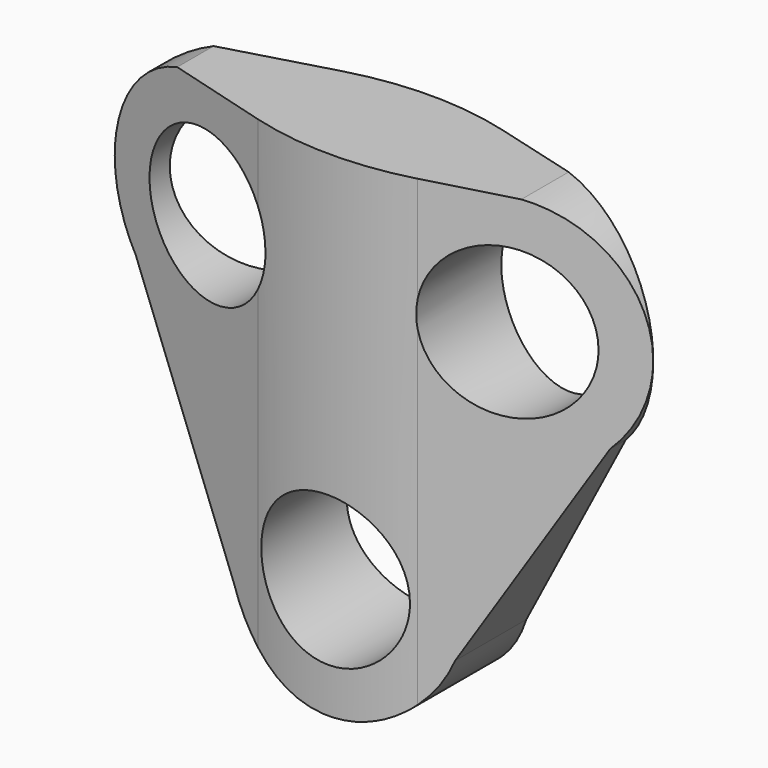
from build123d import *

# Parameters (mm, degrees)
F0_R     = 2.5
F1_DEPTH = 5
F2_DEPTH = 7.6
F4_DEPTH = 12.5


with BuildPart() as f1:
    # F0 (on Front) → F1 (new body)
    with BuildSketch(Plane.XZ):
        with BuildLine():
            ThreePointArc((-13.985505, -0.040325), (-18.794733, 3.876963), (-21.658079, -1.625316))
            ThreePointArc((-21.658079, -1.625316), (-17.895778, -4.039319), (-14.245536, -1.458999))
            ThreePointArc((-14.245536, -1.458999), (-14.05105, -0.761479), (-13.985505, -0.040325))
        make_face()
        with Locations((-17.985505, -0.040325)):
            Circle(F0_R, mode=Mode.SUBTRACT)
        with BuildLine():
            ThreePointArc((-8.813406, 8.51826), (-9.956912, 11.31834), (-12.733627, 12.517465))
            ThreePointArc((-12.733627, 12.517465), (-16.526603, 7.030925), (-9.994852, 5.679994))
            ThreePointArc((-9.994852, 5.679994), (-9.12056, 6.98109), (-8.813406, 8.51826))
        make_face()
        with Locations((-12.813406, 8.51826)):
            Circle(F0_R, mode=Mode.SUBTRACT)
        with Locations((-17.985505, -0.040325)):
            Circle(F0_R)
        with Locations((-12.813406, 8.51826)):
            Circle(F0_R)
        with Locations((-22.811408, 8.718137)):
            Circle(F0_R)
        with BuildLine():
            ThreePointArc((-22.673007, 12.715742), (-19.934465, 11.497201), (-18.811408, 8.718137))
            ThreePointArc((-18.811408, 8.718137), (-21.464184, 4.951841), (-25.903902, 6.181114))
            Line((-25.903902, 6.181114), (-21.658079, -1.625316))
            ThreePointArc((-21.658079, -1.625316), (-18.794733, 3.876963), (-13.985505, -0.040325))
            ThreePointArc((-13.985505, -0.040325), (-14.05105, -0.761479), (-14.245536, -1.458999))
            Line((-14.245536, -1.458999), (-9.994852, 5.679994))
            ThreePointArc((-9.994852, 5.679994), (-16.526603, 7.030925), (-12.733627, 12.517465))
            Line((-12.733627, 12.517465), (-22.673007, 12.715742))
        make_face()
        with BuildLine():
            ThreePointArc((-25.903902, 6.181114), (-21.464184, 4.951841), (-18.811408, 8.718137))
            ThreePointArc((-18.811408, 8.718137), (-19.934465, 11.497201), (-22.673007, 12.715742))
            ThreePointArc((-22.673007, 12.715742), (-26.397075, 10.490986), (-25.903902, 6.181114))
        make_face()
        with Locations((-22.811408, 8.718137)):
            Circle(F0_R, mode=Mode.SUBTRACT)
    extrude(amount=F1_DEPTH)

    # F0 (on Front) → F2 (cut)
    with BuildSketch(Plane.XZ):
        with Locations((-22.811408, 8.718137)):
            Circle(F0_R)
        with Locations((-12.813406, 8.51826)):
            Circle(F0_R)
        with Locations((-17.985505, -0.040325)):
            Circle(F0_R)
    extrude(amount=F2_DEPTH, mode=Mode.SUBTRACT)

    # F3 (on Top) → F4 (intersect, symmetric)
    with BuildSketch(Plane.XY):
        with BuildLine():
            Line((-26.811408, -2.5), (-20.626082, -4.245374))
            ThreePointArc((-20.626082, -4.245374), (-17.950294, -4.621121), (-15.271588, -4.26677))
            Line((-15.271588, -4.26677), (-8.813406, -2.5))
            Line((-8.813406, -2.5), (-15.271588, -0.73323))
            ThreePointArc((-15.271588, -0.73323), (-17.950294, -0.378879), (-20.626082, -0.754626))
            Line((-20.626082, -0.754626), (-26.811408, -2.5))
        make_face()
    extrude(amount=F4_DEPTH, both=True, mode=Mode.INTERSECT)


solid = f1.part
